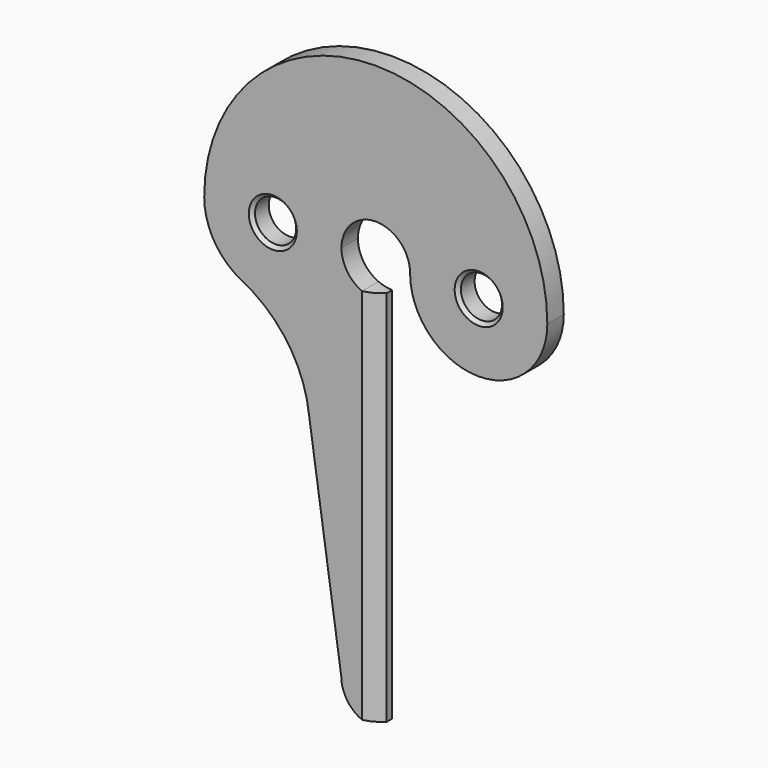
from build123d import *

# Parameters (mm, degrees)
F0_R     = 3.5
F0_R_2   = 3
F1_DEPTH = 3
F2_SIZE  = 0.5
F3_SIZE  = 2


with BuildPart() as f1:
    # F0 (on Front) → F1 (new body)
    with BuildSketch(Plane.XZ):
        with BuildLine():
            ThreePointArc((5, 0), (15, -10), (25, 0))
            ThreePointArc((25, 0), (0, 25), (-25, 0))
            ThreePointArc((-25, 0), (-23.515691, -5.242423), (-19.5034, -8.928571))
            ThreePointArc((-19.5034, -8.928571), (-9.757577, -8.515691), (-5, 0))
            ThreePointArc((-5, 0), (0, 5), (5, 0))
        make_face()
        with Locations((-15, 0)):
            Circle(F0_R, mode=Mode.SUBTRACT)
        with Locations((15, 0)):
            Circle(F0_R, mode=Mode.SUBTRACT)
        with BuildLine():
            ThreePointArc((-5, 0), (-9.757577, -8.515691), (-19.5034, -8.928571))
            ThreePointArc((-19.5034, -8.928571), (-12.820251, -14.739516), (-9.717181, -23.034244))
            Line((-9.717181, -23.034244), (-5.032841, -54.967159))
            ThreePointArc((-5.032841, -54.967159), (-4.20685, -57.729749), (-2, -59.585545))
            Line((-2, -59.585545), (-2, -4.582576))
            ThreePointArc((-2, -4.582576), (-4.1833, -2.738613), (-5, 0))
        make_face()
        with BuildLine():
            ThreePointArc((0, -5), (-1.021548, -4.894532), (-2, -4.582576))
            Line((-2, -4.582576), (-2, -59.585545))
            ThreePointArc((-2, -59.585545), (-1.021246, -59.895297), (0, -60))
            Line((0, -60), (0, -5))
        make_face()
        with Locations((-15, 0)):
            Circle(F0_R)
        with Locations((-15, 0)):
            Circle(F0_R_2, mode=Mode.SUBTRACT)
        with Locations((15, 0)):
            Circle(F0_R)
        with Locations((15, 0)):
            Circle(F0_R_2, mode=Mode.SUBTRACT)
    extrude(amount=F1_DEPTH)

    # F2
    f2_edges = [f1.edges().sort_by_distance(p)[0] for p in [
        (-18, -3, 0),
        (12, -3, 0),
    ]]
    chamfer(f2_edges, length=F2_SIZE)

    # F3
    f3_edges = [f1.edges().sort_by_distance(p)[0] for p in [
        (0, -3, -32.5),
    ]]
    chamfer(f3_edges, length=F3_SIZE)


solid = f1.part
